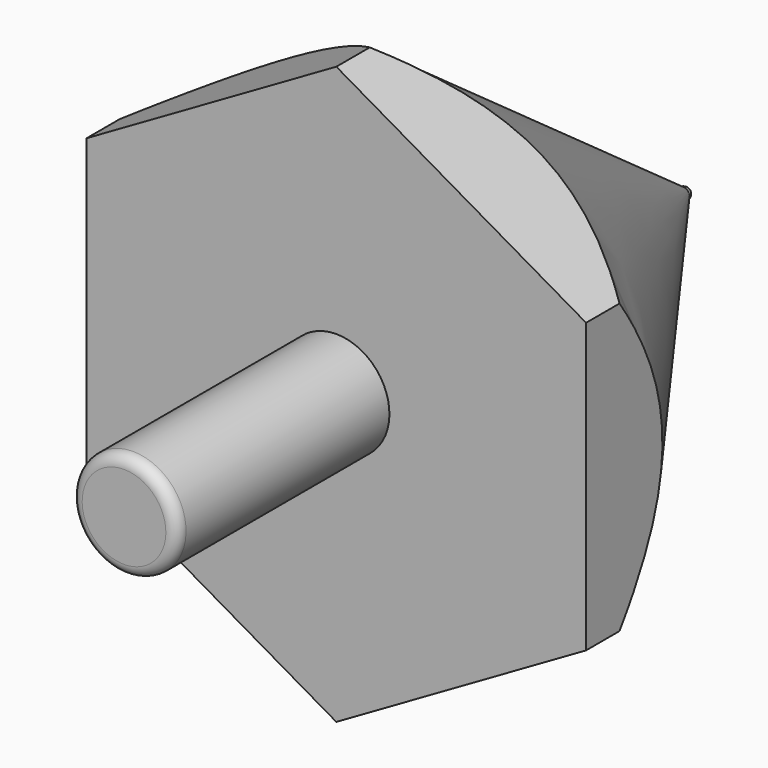
from build123d import *

# Parameters (mm, degrees)
F3_R     = 42.209287
F4_DEPTH = 25.4


with BuildPart() as f1:
    # F0 (on Right) → F1 (revolve)
    with BuildSketch(Plane.YZ):
        with BuildLine():
            Line((0, 4.73), (0, 0))
            Line((0, 0), (79.730563, 0))
            ThreePointArc((79.730563, 0), (79.527636, 0.48991), (79.037726, 0.692837))
            Line((79.037726, 0.692837), (32.012067, 34.551312))
            ThreePointArc((32.012067, 34.551312), (30.691003, 34.651001), (30, 33.520663))
            Line((30, 33.520663), (30, 6))
            Line((30, 6), (1.27, 6))
            ThreePointArc((1.27, 6), (0.371974, 5.628026), (0, 4.73))
        make_face()
    revolve(axis=Axis((0, 92.18878, 0), (0, 1, 0)))

    # F3 (on face) → F4 (cut)
    with BuildSketch(Plane.XZ.offset(-30)):
        Circle(F3_R)
        Polygon((0, 32.600655), (28.232995, 16.300328), (28.232995, -16.300328), (0, -32.600655), (-28.232995, -16.300328), (-28.232995, 16.300328), align=None, mode=Mode.SUBTRACT)
    extrude(amount=-F4_DEPTH, mode=Mode.SUBTRACT)


solid = f1.part
